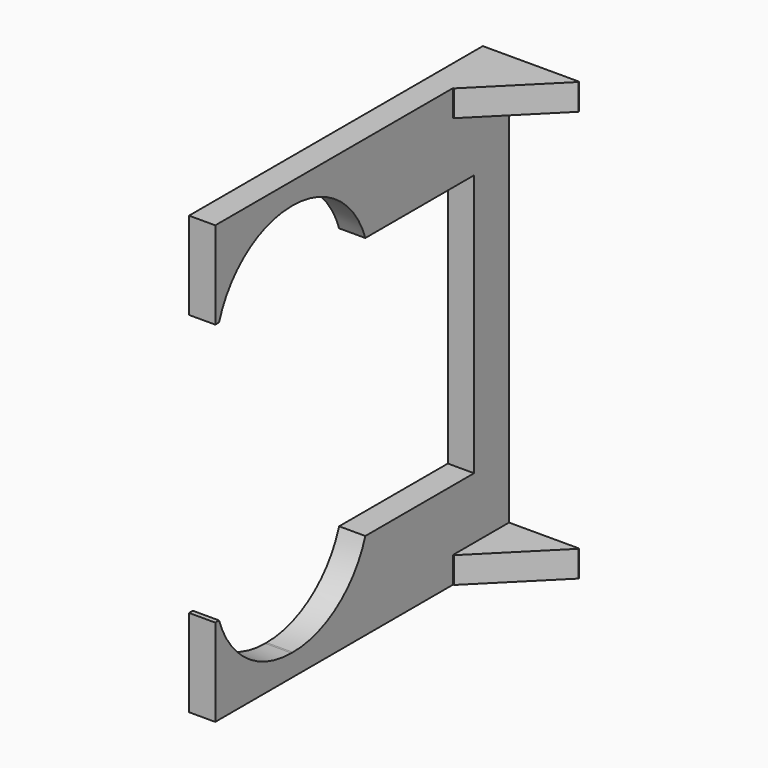
from build123d import *

# Parameters (mm, degrees)
BOX272_W        = 97
BOX272_H        = 22
BOX272_DEPTH    = 45
FILLET031_R     = 10.9
BOX274_W        = 8
BOX274_H        = 8
BOX274_DEPTH    = 3
CHAMFER049_SIZE = 7.9
BOX266_W        = 3
BOX266_H        = 5
BOX266_DEPTH    = 50
BOX265_W        = 3
BOX265_H        = 42
BOX265_DEPTH    = 10
BOX264_W        = 3
BOX264_H        = 42
BOX264_DEPTH    = 10
BOX275_W        = 8
BOX275_H        = 8
BOX275_DEPTH    = 3
CHAMFER050_SIZE = 7.9


with BuildPart() as battery_pack001:
    # Box272 → Box272 (new body)
    with BuildSketch(Plane.XY):
        with Locations((48.5, 11)):
            Rectangle(BOX272_W, BOX272_H)
    extrude(amount=BOX272_DEPTH)

    # Fillet031
    fillet031_edges = [battery_pack001.edges().sort_by_distance(p)[0] for p in [
        (48.5, 0, 0),
        (48.5, 0, 45),
        (48.5, 22, 0),
        (48.5, 22, 45),
    ]]
    fillet(fillet031_edges, radius=FILLET031_R)


with BuildPart() as battery_pack001_1:
    # Fillet031 placement: moved
    add(battery_pack001.part.moved(Location((0, 0, 2.5))))


with BuildPart() as chamfer049:
    # Box274 → Box274 (new body)
    with BuildSketch(Plane(origin=(3, 32, 0), x_dir=(1, 0, 0), z_dir=(0, 0, 1))):
        with Locations((4, 4)):
            Rectangle(BOX274_W, BOX274_H)
    extrude(amount=BOX274_DEPTH)

    # Chamfer049
    chamfer049_edges = [chamfer049.edges().sort_by_distance(p)[0] for p in [
        (11, 32, 1.5),
    ]]
    chamfer(chamfer049_edges, length=CHAMFER049_SIZE)


with BuildPart() as chamfer049_1:
    # Chamfer049 placement: moved
    add(chamfer049.part.moved(Location((0, 2, 47))))


with BuildPart() as cube238:
    # Box266 → Box266 (new body)
    with BuildSketch(Plane(origin=(0, 37, 0), x_dir=(1, 0, 0), z_dir=(0, 0, 1))):
        with Locations((1.5, 2.5)):
            Rectangle(BOX266_W, BOX266_H)
    extrude(amount=BOX266_DEPTH)


with BuildPart() as cube237:
    # Box265 → Box265 (new body)
    with BuildSketch(Plane.XY.offset(40)):
        with Locations((1.5, 21)):
            Rectangle(BOX265_W, BOX265_H)
    extrude(amount=BOX265_DEPTH)


with BuildPart() as cube236:
    # Box264 → Box264 (new body)
    with BuildSketch(Plane.XY):
        with Locations((1.5, 21)):
            Rectangle(BOX264_W, BOX264_H)
    extrude(amount=BOX264_DEPTH)


with BuildPart() as cut:
    # Box275 → Box275 (new body)
    with BuildSketch(Plane(origin=(3, 32, 0), x_dir=(1, 0, 0), z_dir=(0, 0, 1))):
        with Locations((4, 4)):
            Rectangle(BOX275_W, BOX275_H)
    extrude(amount=BOX275_DEPTH)

    # Chamfer050
    chamfer050_edges = [cut.edges().sort_by_distance(p)[0] for p in [
        (11, 32, 1.5),
    ]]
    chamfer(chamfer050_edges, length=CHAMFER050_SIZE)


with BuildPart() as cut_1:
    # Chamfer050 placement: moved
    add(cut.part.moved(Location((0, 2, 0))))

    # Fusion073: union Chamfer049, Cube238, Cube237, Cube236
    add(chamfer049_1.part)
    add(cube238.part)
    add(cube237.part)
    add(cube236.part)

    # Cut: cut Battery pack001
    add(battery_pack001_1.part, mode=Mode.SUBTRACT)


solid = cut_1.part
